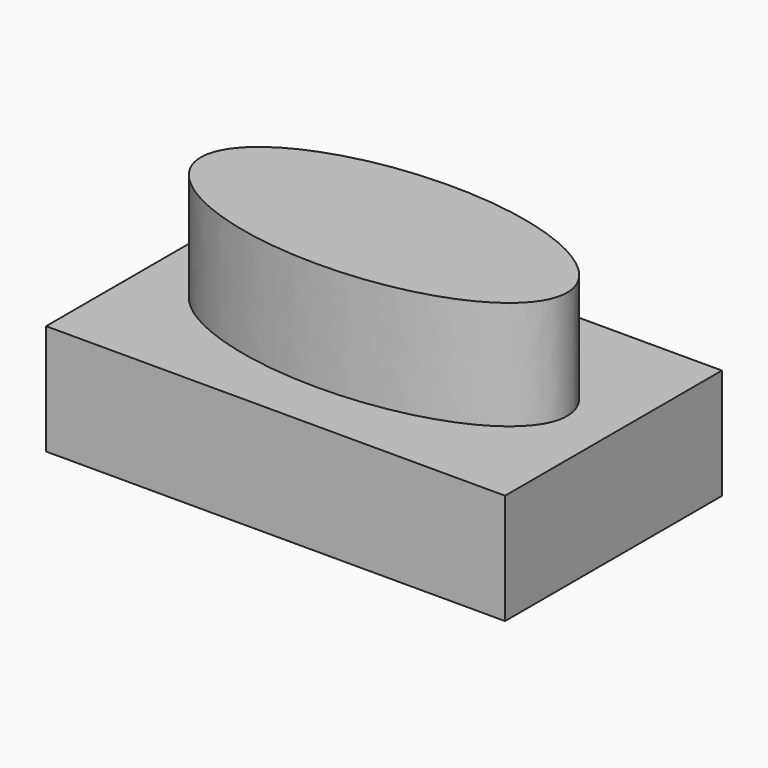
from build123d import *

# Parameters (mm, degrees)
F0_W     = 105.60561
F0_H     = 62.377464
F1_DEPTH = 25.4
F3_DEPTH = 25


with BuildPart() as f1:
    # F0 (on Top) → F1 (new body)
    with BuildSketch(Plane.XY):
        Rectangle(F0_W, F0_H)
    extrude(amount=F1_DEPTH)

    # F2 (on face) → F3 (join)
    with BuildSketch(Plane.XY.offset(25.4)):
        with BuildLine():
            add(Edge.make_bspline(
                [(42.146288, 0), (42.146288, 33.570092), (-21.073144, 16.785046), (-84.292576, 0), (-21.073144, -16.785046), (42.146288, -33.570092), (42.146288, 0)],
                knots=[0, 0, 0, 2.094395, 2.094395, 4.18879, 4.18879, 6.283185, 6.283185, 6.283185], degree=2, weights=[1, 0.5, 1, 0.5, 1, 0.5, 1]))
        make_face()
    extrude(amount=F3_DEPTH)


solid = f1.part
